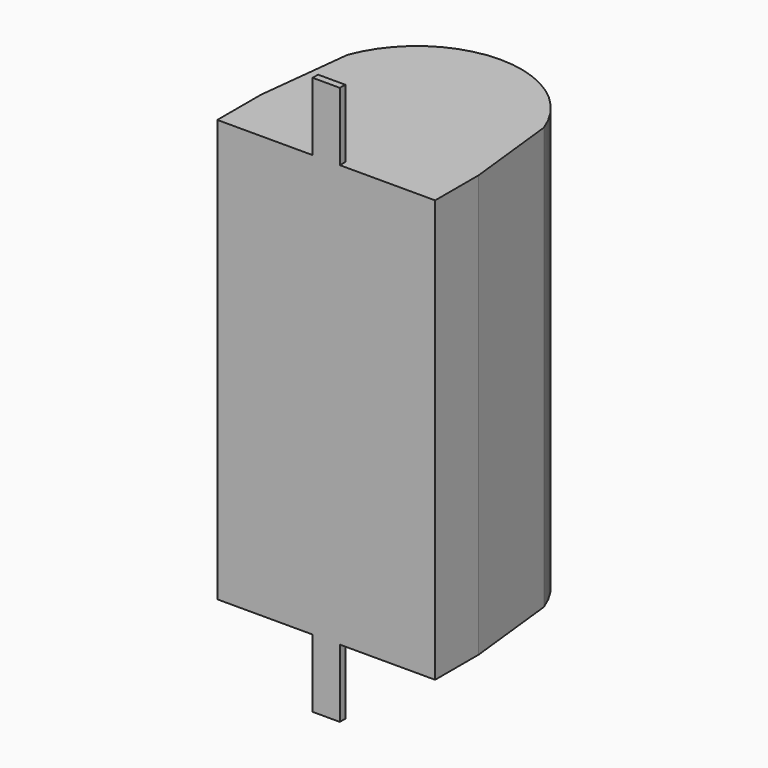
from build123d import *

# Parameters (mm, degrees)
F1_DEPTH = 31
F2_W     = 2
F2_H     = 0.5
F3_DEPTH = 5
F4_W     = 2
F4_H     = 0.5
F5_DEPTH = 5


with BuildPart() as f1:
    # F0 (on Top) → F1 (new body)
    with BuildSketch(Plane.XY):
        with BuildLine():
            Line((-8, 3.136335), (8, 3.136335))
            Line((8, 3.136335), (8, 7.136335))
            Line((8, 7.136335), (7.222222, 14.092991))
            ThreePointArc((7.222222, 14.092991), (0, 19.136335), (-7.222222, 14.092991))
            Line((-7.222222, 14.092991), (-8, 7.136335))
            Line((-8, 7.136335), (-8, 3.136335))
        make_face()
    extrude(amount=F1_DEPTH)

    # F2 (on face) → F3 (join)
    with BuildSketch(Plane.XY.offset(31)):
        with Locations((0, 3.386335)):
            Rectangle(F2_W, F2_H)
    extrude(amount=F3_DEPTH)

    # F4 (on face) → F5 (join)
    with BuildSketch(Plane(origin=(0, 0, 0), x_dir=(1, 0, 0), z_dir=(0, 0, -1))):
        with Locations((0, -3.386335)):
            Rectangle(F4_W, F4_H)
    extrude(amount=F5_DEPTH)


solid = f1.part
